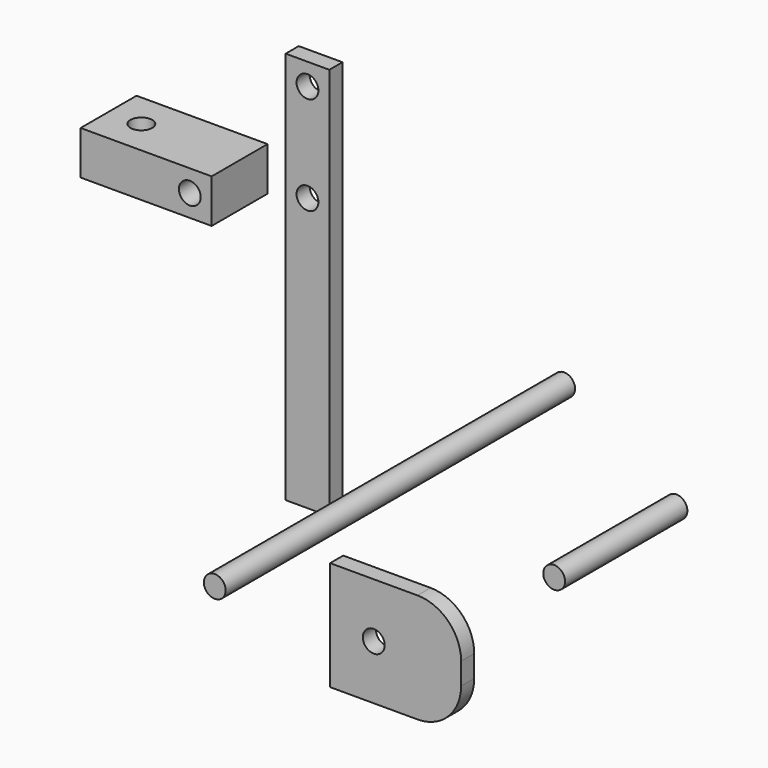
from build123d import *

# Parameters (mm, degrees)
F0_W      = 25.4
F0_H      = 228.6
F0_R      = 6.35
F1_DEPTH  = 9.525
F2_W      = 76.2
F2_H      = 25.4
F3_DEPTH  = 40.64
F4_R      = 6.35
F5_DEPTH  = 57.7088
F6_DEPTH  = 57.7088
F7_R      = 6.35
F8_DEPTH  = 50.8
F9_R      = 6.35
F10_DEPTH = 254
F11_R     = 6.35
F12_DEPTH = 88.9
F13_R     = 6.35
F14_DEPTH = 9.525


with BuildPart() as f1:
    # F0 (on Front) → F1 (new body)
    with BuildSketch(Plane.XZ):
        with Locations((-188.370965, 201.645905)):
            Rectangle(F0_W, F0_H)
        with Locations((-188.370965, 246.095905)):
            Circle(F0_R, mode=Mode.SUBTRACT)
        with Locations((-188.370965, 303.245905)):
            Circle(F0_R, mode=Mode.SUBTRACT)
    extrude(amount=F1_DEPTH)


with BuildPart() as f3:
    # F2 (on Front) → F3 (new body)
    with BuildSketch(Plane.XZ):
        with Locations((-257.311338, 247.160584)):
            Rectangle(F2_W, F2_H)
    extrude(amount=F3_DEPTH)

    # F4 (on face) → F5 (join)
    with BuildSketch(Plane.XZ.offset(40.64)):
        with Locations((-231.911338, 247.160584)):
            Circle(F4_R)
    extrude(amount=-F5_DEPTH)

    # F4 (on face) → F6 (cut)
    with BuildSketch(Plane.XZ.offset(40.64)):
        with Locations((-231.911338, 247.160584)):
            Circle(F4_R)
    extrude(amount=-F6_DEPTH, mode=Mode.SUBTRACT)

    # F7 (on face) → F8 (cut)
    with BuildSketch(Plane.XY.offset(259.860584)):
        with Locations((-276.361338, -20.32)):
            Circle(F7_R)
    extrude(amount=-F8_DEPTH, mode=Mode.SUBTRACT)


with BuildPart() as f10:
    # F9 (on Front) → F10 (new body)
    with BuildSketch(Plane.XZ):
        with Locations((-46.708483, 192.737445)):
            Circle(F9_R)
    extrude(amount=F10_DEPTH)


with BuildPart() as f12:
    # F11 (on Front) → F12 (new body)
    with BuildSketch(Plane.XZ):
        with Locations((18.594613, 151.493385)):
            Circle(F11_R)
    extrude(amount=F12_DEPTH)


with BuildPart() as f14:
    # F13 (on Front) → F14 (new body)
    with BuildSketch(Plane.XZ):
        with BuildLine():
            Line((-124.412132, 63.5), (-175.212132, 63.5))
            Line((-175.212132, 63.5), (-175.212132, 0))
            Line((-175.212132, 0), (-124.412132, 0))
            ThreePointArc((-124.412132, 0), (-106.45162, 7.439488), (-99.012132, 25.4))
            Line((-99.012132, 25.4), (-99.012132, 38.1))
            ThreePointArc((-99.012132, 38.1), (-106.45162, 56.060512), (-124.412132, 63.5))
        make_face()
        with Locations((-149.812132, 31.75)):
            Circle(F13_R, mode=Mode.SUBTRACT)
    extrude(amount=F14_DEPTH)


solid = Compound([f1.part, f3.part, f10.part, f12.part, f14.part])
